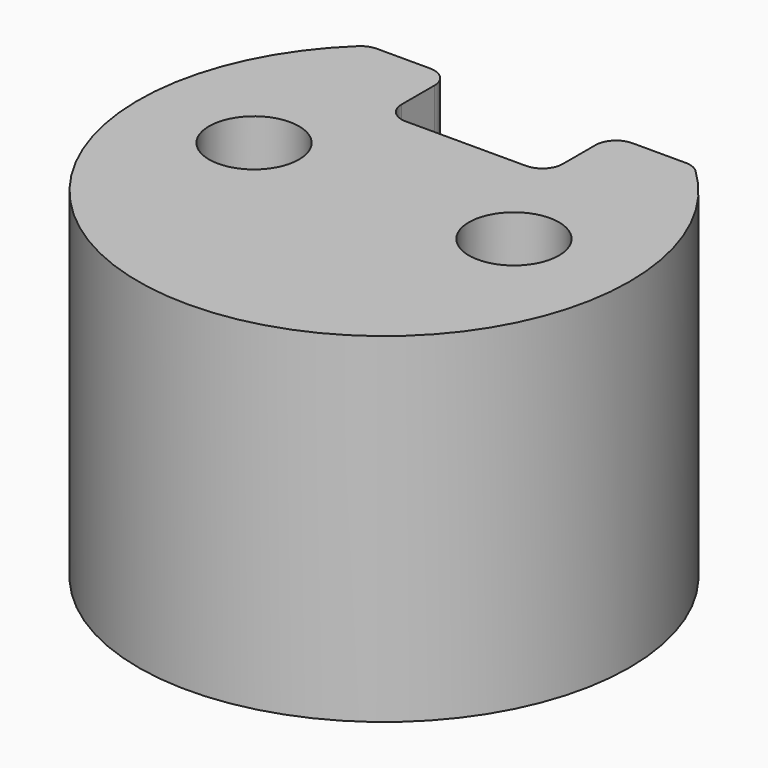
from build123d import *

# Parameters (mm, degrees)
F0_R     = 6
F0_R_2   = 1.1
F1_DEPTH = 2.8
F2_R     = 6
F3_DEPTH = 5.5
F5_DEPTH = 3
F6_R     = 0.5
F7_R     = 2.4
F8_DEPTH = 5


with BuildPart() as f1:
    # F0 (on Top) → F1 (new body)
    with BuildSketch(Plane.XY):
        Circle(F0_R)
        with Locations((-3.175, 0)):
            Circle(F0_R_2, mode=Mode.SUBTRACT)
        with Locations((3.175, 0)):
            Circle(F0_R_2, mode=Mode.SUBTRACT)
    extrude(amount=F1_DEPTH)

    # F2 (on face) → F3 (join)
    with BuildSketch(Plane(origin=(0, 0, 0), x_dir=(1, 0, 0), z_dir=(0, 0, -1))):
        Circle(F2_R)
    extrude(amount=F3_DEPTH)

    # F4 (on face) → F5 (cut)
    with BuildSketch(Plane.XY.offset(2.8)):
        with BuildLine():
            ThreePointArc((3.968627, 4.5), (0, 6), (-3.968627, 4.5))
            Line((-3.968627, 4.5), (-1.968627, 4.5))
            Line((-1.968627, 4.5), (-1.968627, 2.5))
            Line((-1.968627, 2.5), (1.968627, 2.5))
            Line((1.968627, 2.5), (1.968627, 4.5))
            Line((1.968627, 4.5), (3.968627, 4.5))
        make_face()
    extrude(amount=-F5_DEPTH, mode=Mode.SUBTRACT)

    # F6
    f6_edges = [f1.edges().sort_by_distance(p)[0] for p in [
        (-3.968627, 4.5, 1.3),
        (-1.968627, 4.5, 1.3),
        (1.968627, 2.5, 1.3),
        (1.968627, 4.5, 1.3),
        (3.968627, 4.5, 1.3),
        (-1.968627, 2.5, 1.3),
    ]]
    fillet(f6_edges, radius=F6_R)

    # F7 (on face) → F8 (cut)
    with BuildSketch(Plane(origin=(0, 0, -5.5), x_dir=(1, 0, 0), z_dir=(0, 0, -1))):
        Circle(F7_R)
    extrude(amount=-F8_DEPTH, mode=Mode.SUBTRACT)


solid = f1.part
